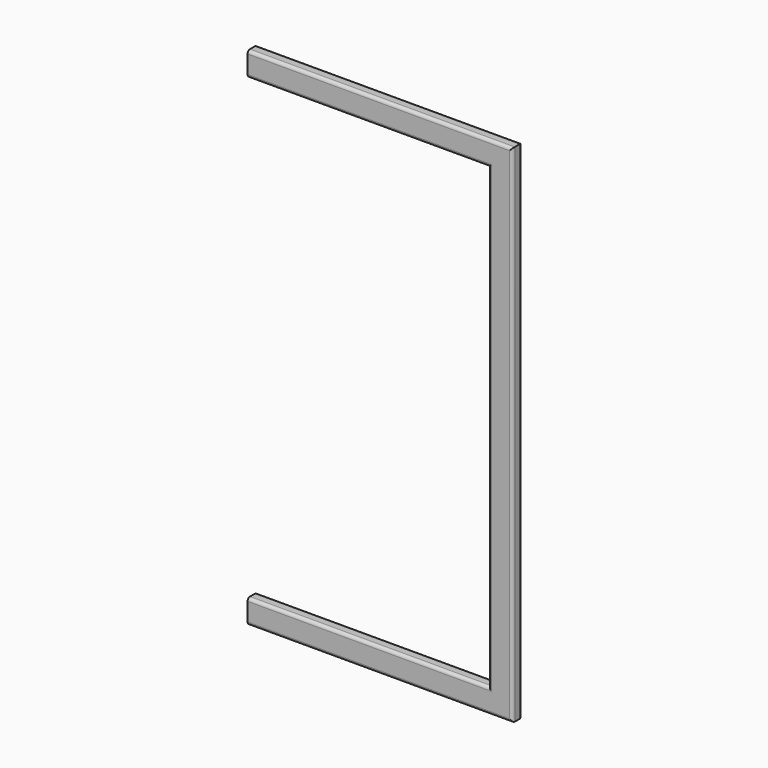
from build123d import *

# Parameters (mm, degrees)
F3_W = 25.4
F3_H = 50.8
F5_R = 6.35


with BuildPart() as f4:
    # F4: sweep along a path in F1
    with BuildLine(Plane.XZ) as f4_path:
        Line((4636.6553444, 766.7224442), (5169.5693154, 766.7224442))
        Line((5169.5693154, 766.7224442), (5169.5693154, -249.2775558))
        Line((5169.5693154, -249.2775558), (4636.6553444, -249.2775558))
    # F3 (on plane+point) → F4 (sweep)
    with BuildSketch(Plane.YZ.offset(4636.6553444)):
        with Locations((0, 766.7224442)):
            Rectangle(F3_W, F3_H)
    sweep(path=f4_path.line, transition=Transition.RIGHT)

    # F5
    f5_edges = [f4.edges().sort_by_distance(p)[0] for p in [
        (4890.41233, 12.7, -223.877556),
        (5144.169315, 12.7, 258.722444),
        (5194.969315, 12.7, 258.722444),
        (4915.81233, 12.7, -274.677556),
        (4890.41233, -12.7, -223.877556),
        (5144.169315, -12.7, 258.722444),
        (4890.41233, 12.7, 741.322444),
        (4915.81233, 12.7, 792.122444),
        (4915.81233, -12.7, 792.122444),
        (4890.41233, -12.7, 741.322444),
        (5194.969315, -12.7, 258.722444),
        (4915.81233, -12.7, -274.677556),
    ]]
    fillet(f5_edges, radius=F5_R)


solid = f4.part
